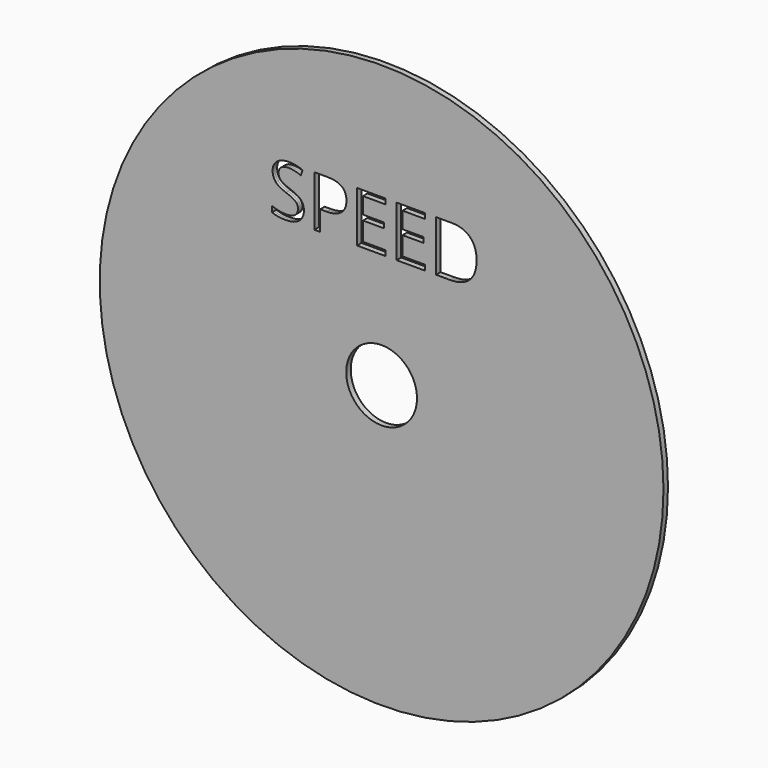
from build123d import *

# Parameters (mm, degrees)
F0_R     = 59.69
F0_R_2   = 7.493
F1_DEPTH = 0.5969


with BuildPart() as f1:
    # F0 (on Front) → F1 (new body, symmetric)
    with BuildSketch(Plane.XZ):
        Circle(F0_R)
        with BuildLine():
            add(Edge.make_bspline(
                [(-17.0897103089, 29.0026352959), (-16.4548764224, 28.3113717305), (-16.4548764224, 27.2109929938)],
                knots=[0, 0, 0, 1, 1, 1], degree=2))
            add(Edge.make_bspline(
                [(-16.4548764224, 27.2109929938), (-16.4548764224, 25.7931973138), (-17.4835424423, 24.9984793372)],
                knots=[0, 0, 0, 1, 1, 1], degree=2))
            add(Edge.make_bspline(
                [(-17.4835424423, 24.9984793372), (-18.5122084622, 24.2037613607), (-20.2756359249, 24.2037613607)],
                knots=[0, 0, 0, 1, 1, 1], degree=2))
            add(Edge.make_bspline(
                [(-20.2756359249, 24.2037613607), (-22.1848400579, 24.2037613607), (-23.2146816961, 24.6975210503)],
                knots=[0, 0, 0, 1, 1, 1], degree=2))
            Line((-23.2146816961, 24.6975210503), (-23.2146816961, 25.9013541981))
            add(Edge.make_bspline(
                [(-23.2146816961, 25.9013541981), (-22.5516329701, 25.6239082773), (-21.7733736499, 25.4616729508)],
                knots=[0, 0, 0, 1, 1, 1], degree=2))
            add(Edge.make_bspline(
                [(-21.7733736499, 25.4616729508), (-20.9951143297, 25.2994376242), (-20.2309624292, 25.2994376242)],
                knots=[0, 0, 0, 1, 1, 1], degree=2))
            add(Edge.make_bspline(
                [(-20.2309624292, 25.2994376242), (-18.9824557856, 25.2994376242), (-18.3499731356, 25.7732118025)],
                knots=[0, 0, 0, 1, 1, 1], degree=2))
            add(Edge.make_bspline(
                [(-18.3499731356, 25.7732118025), (-17.7174904857, 26.2469859808), (-17.7174904857, 27.0934311629)],
                knots=[0, 0, 0, 1, 1, 1], degree=2))
            add(Edge.make_bspline(
                [(-17.7174904857, 27.0934311629), (-17.7174904857, 27.6506742412), (-17.9420335826, 28.0068865886)],
                knots=[0, 0, 0, 1, 1, 1], degree=2))
            add(Edge.make_bspline(
                [(-17.9420335826, 28.0068865886), (-18.1665766795, 28.3630989361), (-18.6920780634, 28.6652328414)],
                knots=[0, 0, 0, 1, 1, 1], degree=2))
            add(Edge.make_bspline(
                [(-18.6920780634, 28.6652328414), (-19.2175794473, 28.9673667467), (-20.2897433446, 29.3482670786)],
                knots=[0, 0, 0, 1, 1, 1], degree=2))
            add(Edge.make_bspline(
                [(-20.2897433446, 29.3482670786), (-21.7874810696, 29.8843490273), (-22.4305442844, 30.6191104701)],
                knots=[0, 0, 0, 1, 1, 1], degree=2))
            add(Edge.make_bspline(
                [(-22.4305442844, 30.6191104701), (-23.0736074991, 31.3538719129), (-23.0736074991, 32.5365439312)],
                knots=[0, 0, 0, 1, 1, 1], degree=2))
            add(Edge.make_bspline(
                [(-23.0736074991, 32.5365439312), (-23.0736074991, 33.777996865), (-22.1413421805, 34.5127583078)],
                knots=[0, 0, 0, 1, 1, 1], degree=2))
            add(Edge.make_bspline(
                [(-22.1413421805, 34.5127583078), (-21.2090768619, 35.2475197506), (-19.6713681144, 35.2475197506)],
                knots=[0, 0, 0, 1, 1, 1], degree=2))
            add(Edge.make_bspline(
                [(-19.6713681144, 35.2475197506), (-18.0701759782, 35.2475197506), (-16.7252686333, 34.6597105963)],
                knots=[0, 0, 0, 1, 1, 1], degree=2))
            Line((-16.7252686333, 34.6597105963), (-17.1155739117, 33.5734392793))
            add(Edge.make_bspline(
                [(-17.1155739117, 33.5734392793), (-18.4463738369, 34.1306823575), (-19.7019341904, 34.1306823575)],
                knots=[0, 0, 0, 1, 1, 1], degree=2))
            add(Edge.make_bspline(
                [(-19.7019341904, 34.1306823575), (-20.6941560427, 34.1306823575), (-21.2525747393, 33.7051085298)],
                knots=[0, 0, 0, 1, 1, 1], degree=2))
            add(Edge.make_bspline(
                [(-21.2525747393, 33.7051085298), (-21.8109934358, 33.2795347022), (-21.8109934358, 32.5224365115)],
                knots=[0, 0, 0, 1, 1, 1], degree=2))
            add(Edge.make_bspline(
                [(-21.8109934358, 32.5224365115), (-21.8109934358, 31.9651934333), (-21.6052602318, 31.6078054675)],
                knots=[0, 0, 0, 1, 1, 1], degree=2))
            add(Edge.make_bspline(
                [(-21.6052602318, 31.6078054675), (-21.3995270278, 31.2504175017), (-20.9104698115, 30.9529860697)],
                knots=[0, 0, 0, 1, 1, 1], degree=2))
            add(Edge.make_bspline(
                [(-20.9104698115, 30.9529860697), (-20.4214125952, 30.6555546376), (-19.4150833231, 30.2958154352)],
                knots=[0, 0, 0, 1, 1, 1], degree=2))
            add(Edge.make_bspline(
                [(-19.4150833231, 30.2958154352), (-17.7245441955, 29.6938988613), (-17.0897103089, 29.0026352959)],
                knots=[0, 0, 0, 1, 1, 1], degree=2))
        make_face(mode=Mode.SUBTRACT)
        with BuildLine():
            add(Edge.make_bspline(
                [(-11.4702547944, 35.0946893705), (-7.4449377062, 35.0946893705), (-7.4449377062, 31.9651934333)],
                knots=[0, 0, 0, 1, 1, 1], degree=2))
            add(Edge.make_bspline(
                [(-7.4449377062, 31.9651934333), (-7.4449377062, 30.3334352211), (-8.5582482443, 29.4552483447)],
                knots=[0, 0, 0, 1, 1, 1], degree=2))
            add(Edge.make_bspline(
                [(-8.5582482443, 29.4552483447), (-9.6715587824, 28.5770614682), (-11.742998242, 28.5770614682)],
                knots=[0, 0, 0, 1, 1, 1], degree=2))
            Line((-11.742998242, 28.5770614682), (-13.0079635419, 28.5770614682))
            Line((-13.0079635419, 28.5770614682), (-13.0079635419, 24.3518892676))
            Line((-13.0079635419, 24.3518892676), (-14.2564701855, 24.3518892676))
            Line((-14.2564701855, 24.3518892676), (-14.2564701855, 35.0946893705))
            Line((-14.2564701855, 35.0946893705), (-11.4702547944, 35.0946893705))
        make_face(mode=Mode.SUBTRACT)
        Polygon((0.791444163, 25.4687266606), (0.791444163, 24.3518892676), (-5.1971555004, 24.3518892676), (-5.1971555004, 35.0946893705), (0.791444163, 35.0946893705), (0.791444163, 33.9849056872), (-3.9486488567, 33.9849056872), (-3.9486488567, 30.5238853871), (0.5045932958, 30.5238853871), (0.5045932958, 29.4211554137), (-3.9486488567, 29.4211554137), (-3.9486488567, 25.4687266606), align=None, mode=Mode.SUBTRACT)
        Circle(F0_R_2, mode=Mode.SUBTRACT)
        Polygon((9.1594952828, 25.4687266606), (9.1594952828, 24.3518892676), (3.1708956194, 24.3518892676), (3.1708956194, 35.0946893705), (9.1594952828, 35.0946893705), (9.1594952828, 33.9849056872), (4.419402263, 33.9849056872), (4.419402263, 30.5238853871), (8.8726444155, 30.5238853871), (8.8726444155, 29.4211554137), (4.419402263, 29.4211554137), (4.419402263, 25.4687266606), align=None, mode=Mode.SUBTRACT)
        with BuildLine():
            add(Edge.make_bspline(
                [(18.7255014589, 33.7062841481), (20.1139066812, 32.3178789258), (20.1139066812, 29.8255681118)],
                knots=[0, 0, 0, 1, 1, 1], degree=2))
            add(Edge.make_bspline(
                [(20.1139066812, 29.8255681118), (20.1139066812, 27.1663194981), (18.6702473984, 25.7591043828)],
                knots=[0, 0, 0, 1, 1, 1], degree=2))
            add(Edge.make_bspline(
                [(18.6702473984, 25.7591043828), (17.2265881156, 24.3518892676), (14.5156122962, 24.3518892676)],
                knots=[0, 0, 0, 1, 1, 1], degree=2))
            Line((14.5156122962, 24.3518892676), (11.5389467392, 24.3518892676))
            Line((11.5389467392, 24.3518892676), (11.5389467392, 35.0946893705))
            Line((11.5389467392, 35.0946893705), (14.8306780029, 35.0946893705))
            add(Edge.make_bspline(
                [(14.8306780029, 35.0946893705), (17.3370962366, 35.0946893705), (18.7255014589, 33.7062841481)],
                knots=[0, 0, 0, 1, 1, 1], degree=2))
        make_face(mode=Mode.SUBTRACT)
    extrude(amount=F1_DEPTH, both=True)


solid = f1.part
